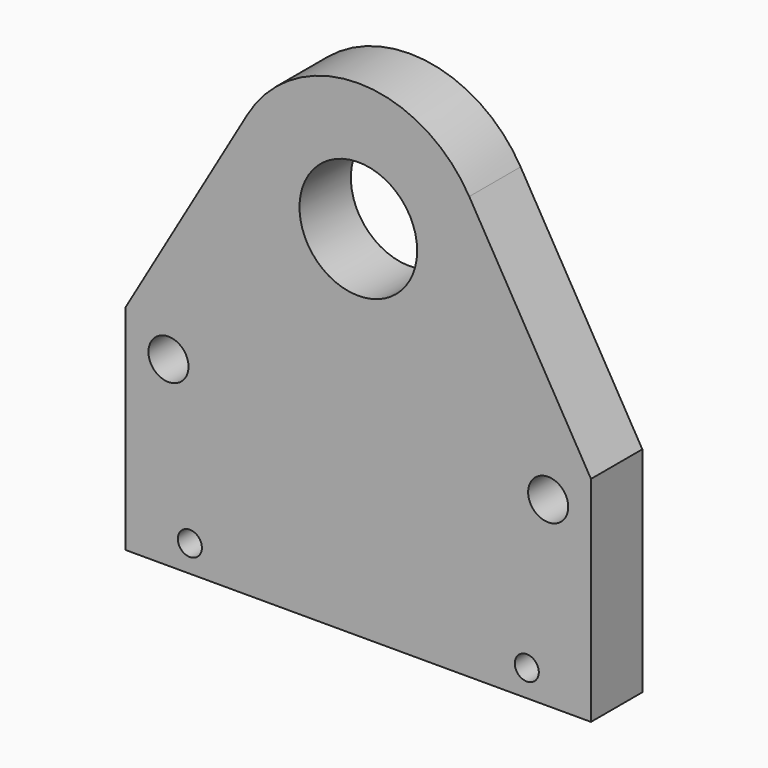
from build123d import *

# Parameters (mm, degrees)
F0_R     = 2.25
F0_R_2   = 3.75
F0_R_3   = 11
F1_DEPTH = 12


with BuildPart() as f1:
    # F0 (on Front) → F1 (new body)
    with BuildSketch(Plane.XZ):
        with BuildLine():
            Line((0, 40), (0, 0))
            Line((0, 0), (87, 0))
            Line((87, 0), (87, 40))
            Line((87, 40), (64.238746, 79.07909))
            ThreePointArc((64.238746, 79.07909), (43.5, 91), (22.761254, 79.07909))
            Line((22.761254, 79.07909), (0, 40))
        make_face()
        with Locations((12, 5)):
            Circle(F0_R, mode=Mode.SUBTRACT)
        with Locations((8, 34)):
            Circle(F0_R_2, mode=Mode.SUBTRACT)
        with Locations((75, 5)):
            Circle(F0_R, mode=Mode.SUBTRACT)
        with Locations((79, 34)):
            Circle(F0_R_2, mode=Mode.SUBTRACT)
        with Locations((43.5, 67)):
            Circle(F0_R_3, mode=Mode.SUBTRACT)
    extrude(amount=F1_DEPTH)


solid = f1.part
